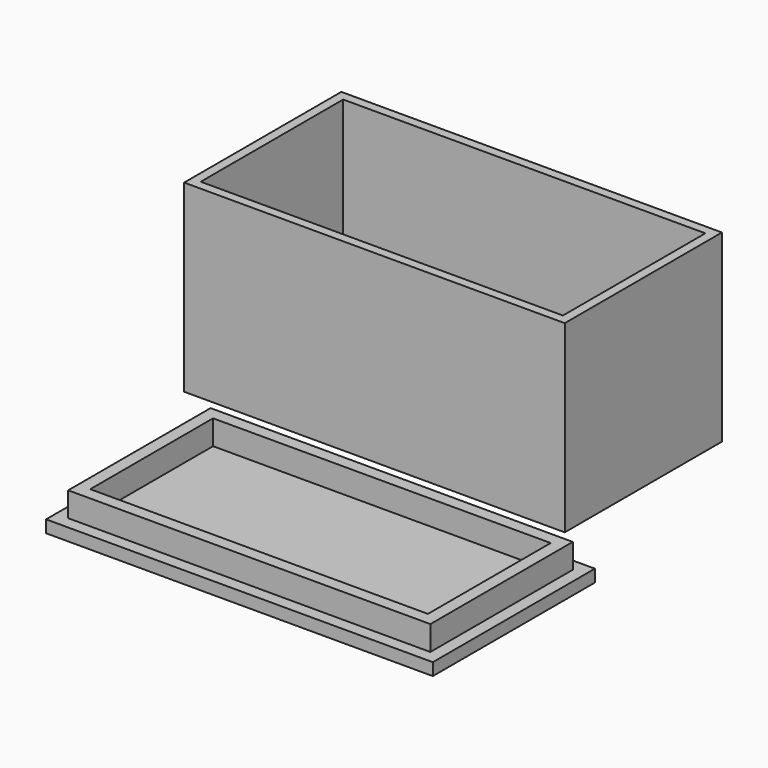
from build123d import *

# Parameters (mm, degrees)
F0_W        = 62
F0_H        = 32
F1_DEPTH    = 30
F2_T        = -1.5
F3_W        = 59
F3_H        = 29
F3_W_2      = 55
F3_H_2      = 25
F4_DEPTH    = 4
F3_W_3      = 63
F3_H_3      = 33
F4_FACE_W   = 59
F4_FACE_H   = 29
F4_FACE_W_2 = 55
F4_FACE_H_2 = 25
F5_DEPTH    = 2


with BuildPart() as f1:
    # F0 (on Top) → F1 (new body)
    with BuildSketch(Plane.XY):
        with Locations((-26.43989, 14.88154)):
            Rectangle(F0_W, F0_H)
    extrude(amount=F1_DEPTH)

    # F2
    f2_openings = [f1.faces().sort_by_distance(p)[0] for p in [
        (-26.43989, 14.88154, 30),
    ]]
    offset(amount=F2_T, openings=f2_openings)


with BuildPart() as f4:
    # F3 (on Top) → F4 (new body)
    with BuildSketch(Plane.XY):
        with Locations((-15.303554, -26.031687)):
            Rectangle(F3_W, F3_H)
        with Locations((-15.303554, -26.031687)):
            Rectangle(F3_W_2, F3_H_2, mode=Mode.SUBTRACT)
    extrude(amount=F4_DEPTH)

    # F3 (on Top) + F4_face (on face) → F5 (join)
    with BuildSketch(Plane.XY):
        with Locations((-15.303554, -26.031687)):
            Rectangle(F3_W_3, F3_H_3)
        with Locations((-15.303554, -26.031687)):
            Rectangle(F3_W, F3_H, mode=Mode.SUBTRACT)
        with Locations((-15.303554, -26.031687)):
            Rectangle(F3_W, F3_H)
        with Locations((-15.303554, -26.031687)):
            Rectangle(F3_W_2, F3_H_2, mode=Mode.SUBTRACT)
        with Locations((-15.303554, -26.031687)):
            Rectangle(F3_W_2, F3_H_2)
    with BuildSketch(Plane(origin=(-15.303554, -26.031687, 4), x_dir=(1, 0, 0), z_dir=(0, 0, 1))):
        Rectangle(F4_FACE_W, F4_FACE_H)
        Rectangle(F4_FACE_W_2, F4_FACE_H_2, mode=Mode.SUBTRACT)
    extrude(amount=F5_DEPTH)


solid = Compound([f1.part, f4.part])
